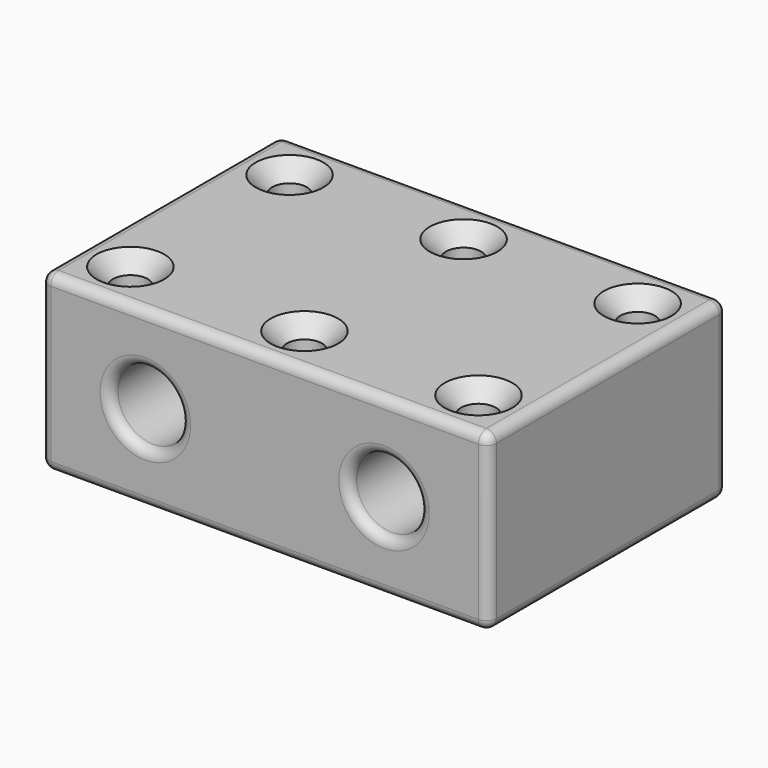
from build123d import *

# Parameters (mm, degrees)
SKETCH_W         = 45
SKETCH_H         = 17.5
SKETCH_R         = 3.55
PAD_DEPTH        = 30
HOLE_D           = 3.5
HOLE_DEPTH       = 25
HOLE_CSINK_D     = 6.8
HOLE_CSINK_ANGLE = 90
FILLET_R         = 1


with BuildPart() as part:
    # Sketch → Pad (new body)
    with BuildSketch(Plane.XZ):
        Rectangle(SKETCH_W, SKETCH_H)
        with Locations((12, 0)):
            Circle(SKETCH_R, mode=Mode.SUBTRACT)
        with Locations((-12, 0)):
            Circle(SKETCH_R, mode=Mode.SUBTRACT)
    extrude(amount=PAD_DEPTH)

    # Hole
    with Locations(Plane(origin=(0, 0, 8.75), x_dir=(-1, 0, 0), z_dir=(0, 0, 1))):
        with Locations((-17.5, 25), (-17.5, 5), (0, 25), (0, 5)):
            hole = CounterSinkHole(HOLE_D / 2, HOLE_CSINK_D / 2, depth=HOLE_DEPTH, counter_sink_angle=HOLE_CSINK_ANGLE)

    # Mirrored: Hole across Sketch001 V_Axis
    add(hole.mirror(Plane(origin=(0, 0, 8.75), x_dir=(0, 0, 1), z_dir=(-1, 0, 0))), mode=Mode.SUBTRACT)

    # Fillet
    fillet_edges = [part.edges().sort_by_distance(p)[0] for p in [
        (0, -30, -8.75),
        (22.5, -30, 0),
        (0, -30, 8.75),
        (-22.5, -30, 0),
        (-15.55, -30, 0),
        (8.45, -30, 0),
        (-22.5, -15, 8.75),
        (-22.5, -15, -8.75),
        (-22.5, 0, 0),
        (22.5, -15, -8.75),
        (22.5, -15, 8.75),
        (22.5, 0, 0),
        (0, 0, -8.75),
        (0, 0, 8.75),
        (-15.55, 0, 0),
        (8.45, 0, 0),
    ]]
    fillet(fillet_edges, radius=FILLET_R)


solid = part.part
